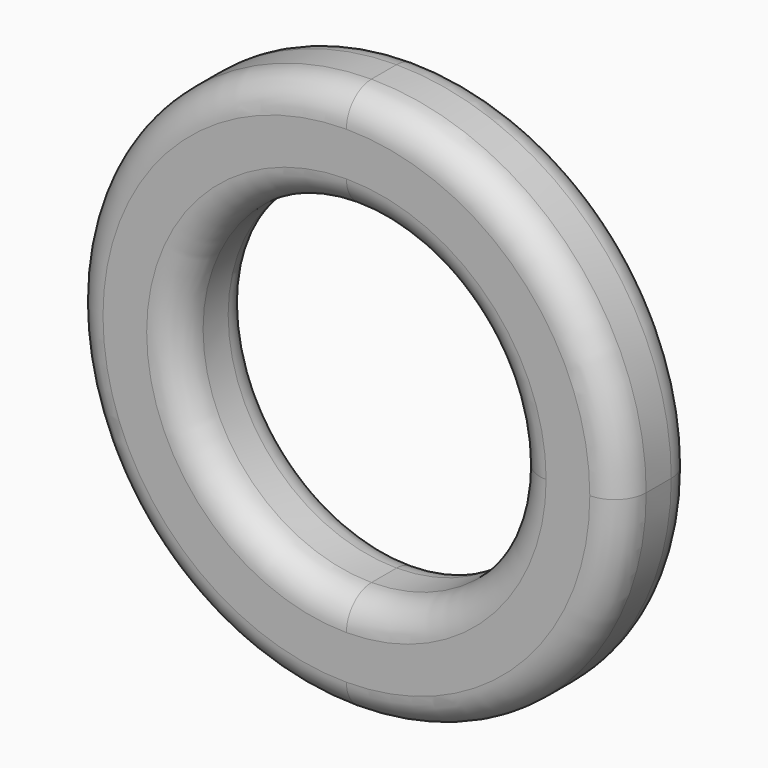
from build123d import *

# Parameters (mm, degrees)
F1_DEPTH = 3.81
F2_R     = 2.54


with BuildPart() as f1:
    # F0 (on Front) → F1 (new body, symmetric)
    with BuildSketch(Plane.XZ):
        with BuildLine():
            ThreePointArc((0, -22.272892), (15.749313, -15.749313), (22.272892, 0))
            ThreePointArc((22.272892, 0), (15.749313, 15.749313), (0, 22.272892))
            Line((0, 22.272892), (0, 13.651826))
            ThreePointArc((0, 13.651826), (9.653299, 9.653299), (13.651826, 0))
            ThreePointArc((13.651826, 0), (9.653299, -9.653299), (0, -13.651826))
            Line((0, -13.651826), (0, -22.272892))
        make_face()
        with BuildLine():
            Line((0, 13.651826), (0, 22.272892))
            ThreePointArc((0, 22.272892), (-22.272892, 0), (0, -22.272892))
            Line((0, -22.272892), (0, -13.651826))
            ThreePointArc((0, -13.651826), (-13.651826, 0), (0, 13.651826))
        make_face()
    extrude(amount=F1_DEPTH, both=True)

    # F2
    f2_edges = [f1.edges().sort_by_distance(p)[0] for p in [
        (-13.651826, -3.81, 0),
        (-22.272892, -3.81, 0),
        (-22.272892, 3.81, 0),
        (-13.651826, 3.81, 0),
    ]]
    fillet(f2_edges, radius=F2_R)


solid = f1.part
